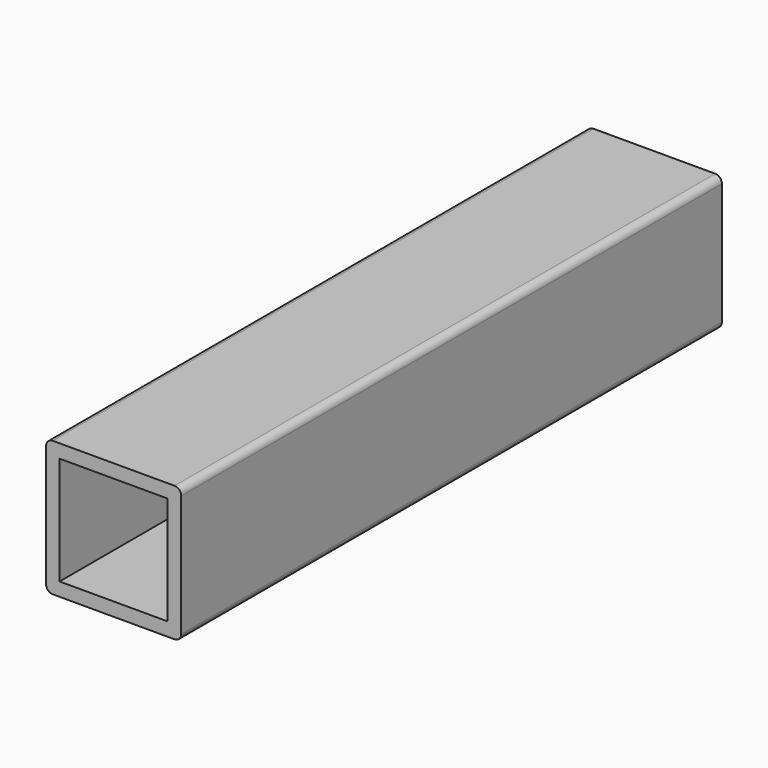
from build123d import *

# Parameters (mm, degrees)
SKETCH_W     = 20
SKETCH_H     = 100
PAD_DEPTH    = 20
SKETCH001_W  = 16
SKETCH001_H  = 16
POCKET_DEPTH = 100.001
FILLET_R     = 1
FILLET001_R  = 1
FILLET002_R  = 1


with BuildPart() as part:
    # Sketch → Pad (new body)
    with BuildSketch(Plane.XY):
        with Locations((10, 50)):
            Rectangle(SKETCH_W, SKETCH_H)
    extrude(amount=PAD_DEPTH)

    # Sketch001 (on Face1 of Pad) → Pocket (cut, through all)
    with BuildSketch(Plane.XZ):
        with Locations((10, 10)):
            Rectangle(SKETCH001_W, SKETCH001_H)
    extrude(amount=-POCKET_DEPTH, mode=Mode.SUBTRACT)

    # Fillet
    fillet_edges = [part.edges().sort_by_distance(p)[0] for p in [
        (20, 50, 20),
    ]]
    fillet(fillet_edges, radius=FILLET_R)

    # Fillet001
    fillet001_edges = [part.edges().sort_by_distance(p)[0] for p in [
        (0, 50, 20),
    ]]
    fillet(fillet001_edges, radius=FILLET001_R)

    # Fillet002
    fillet002_edges = [part.edges().sort_by_distance(p)[0] for p in [
        (0, 50, 0),
        (20, 50, 0),
    ]]
    fillet(fillet002_edges, radius=FILLET002_R)


solid = part.part
